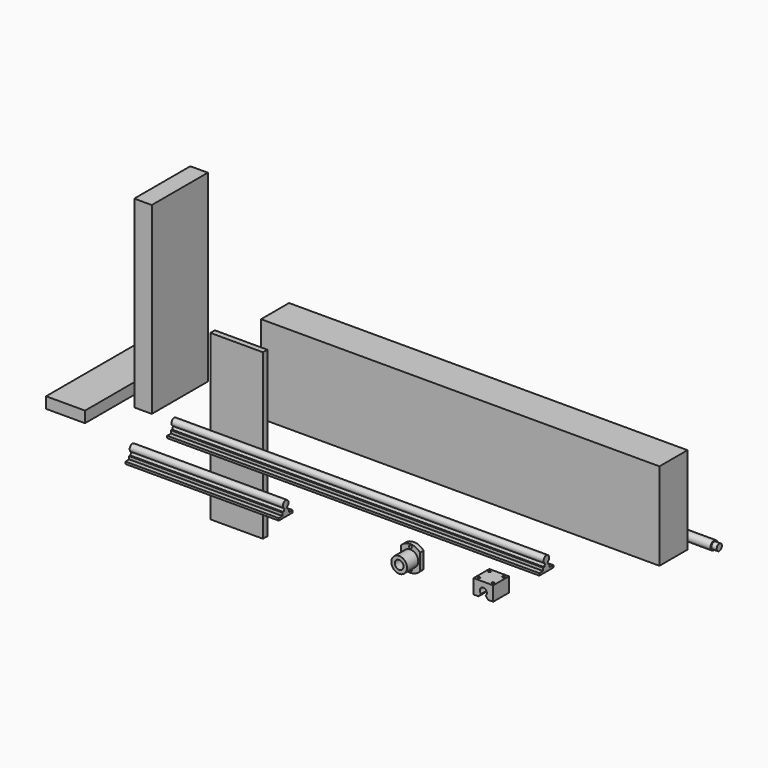
from build123d import *

# Parameters (mm, degrees)
F0_W      = 120
F0_H      = 375
F1_DEPTH  = 12.7
F2_W      = 80
F2_H      = 200
F3_DEPTH  = 910
F4_W      = 40
F4_H      = 160
F5_DEPTH  = 420
F6_W      = 88.9
F6_H      = 250
F7_DEPTH  = 25.4
F9_DEPTH  = 22.5
F11_D     = 5
F11_DEPTH = 12
F11_TIP   = 1.5021515476
F12_R     = 3.3
F12_R_2   = 10
F13_DEPTH = 10
F14_R     = 18
F14_R_2   = 10
F15_DEPTH = 32
F19_DEPTH = 850
F21_DEPTH = 350


with BuildPart() as f1:
    # F0 (on Front) → F1 (new body)
    with BuildSketch(Plane.XZ):
        Rectangle(F0_W, F0_H)
    extrude(amount=F1_DEPTH)


with BuildPart() as f3:
    # F2 (on Right) → F3 (new body)
    with BuildSketch(Plane.YZ):
        with Locations((96.9289559871, 106.2416992025)):
            Rectangle(F2_W, F2_H)
    extrude(amount=F3_DEPTH)


with BuildPart() as f5:
    # F4 (on Top) → F5 (new body)
    with BuildSketch(Plane.XY):
        with Locations((-191.0385191441, 38.7887568785)):
            Rectangle(F4_W, F4_H)
    extrude(amount=F5_DEPTH)


with BuildPart() as f7:
    # F6 (on Top) → F7 (new body)
    with BuildSketch(Plane.XY):
        with Locations((-285.9749857664, -18.732093201)):
            Rectangle(F6_W, F6_H)
    extrude(amount=F7_DEPTH)


with BuildPart() as f9:
    # F8 (on Front) → F9 (new body, symmetric)
    with BuildSketch(Plane.XZ):
        with BuildLine():
            Line((593.8730051517, -136.5850613447), (593.8730051517, -103.5850613447))
            Line((593.8730051517, -103.5850613447), (548.8730051517, -103.5850613447))
            Line((548.8730051517, -103.5850613447), (548.8730051517, -136.5850613447))
            Line((548.8730051517, -136.5850613447), (560.4647099464, -136.5850613447))
            Line((560.4647099464, -136.5850613447), (566.2307042743, -129.7134168896))
            ThreePointArc((566.2307042743, -129.7134168896), (571.3730051517, -115.5850613447), (576.5153060292, -129.7134168896))
            Line((576.5153060292, -129.7134168896), (582.2813003571, -136.5850613447))
            Line((582.2813003571, -136.5850613447), (593.8730051517, -136.5850613447))
        make_face()
    extrude(amount=F9_DEPTH, both=True)

    # F11
    with Locations(Plane.XY.offset(-103.5850613447)):
        with Locations((555.3730051517, 15), (587.3730051517, 15), (587.3730051517, -15), (555.3730051517, -15)):
            Hole(F11_D / 2, depth=F11_DEPTH)
            with Locations((0, 0, -(F11_DEPTH + F11_TIP / 2))):  # 118° drill point
                Cone(0, F11_D / 2, F11_TIP, mode=Mode.SUBTRACT)


with BuildPart() as f13:
    # F12 (on Front) → F13 (new body)
    with BuildSketch(Plane.XZ):
        with BuildLine():
            Line((416.6688771248, -138.14006966), (416.6688771248, -100.3511824047))
            ThreePointArc((416.6688771248, -100.3511824047), (394.6688771248, -90.2456260324), (372.6688771248, -100.3511824047))
            Line((372.6688771248, -100.3511824047), (372.6688771248, -138.14006966))
            ThreePointArc((372.6688771248, -138.14006966), (394.6688771248, -148.2456260324), (416.6688771248, -138.14006966))
        make_face()
        with Locations((394.6688771248, -142.7456260324)):
            Circle(F12_R, mode=Mode.SUBTRACT)
        with Locations((394.6688771248, -119.2456260324)):
            Circle(F12_R_2, mode=Mode.SUBTRACT)
        with Locations((394.6688771248, -95.7456260324)):
            Circle(F12_R, mode=Mode.SUBTRACT)
    extrude(amount=F13_DEPTH)

    # F14 (on face) → F15 (join)
    with BuildSketch(Plane.XZ.offset(10)):
        with Locations((394.6688771248, -119.2456260324)):
            Circle(F14_R)
        with Locations((394.6688771248, -119.2456260324)):
            Circle(F14_R_2, mode=Mode.SUBTRACT)
    extrude(amount=F15_DEPTH)


with BuildPart() as f17:
    # F16 (on Top) → F17 (revolve)
    with BuildSketch(Plane.XY):
        Polygon((-8.7700150907, 194.7517869473), (-8.7700150907, 188.7517869473), (941.2299849093, 188.7517869473), (941.2299849093, 196.2517869473), (929.2299849093, 196.2517869473), (929.2299849093, 198.7517869473), (51.2299849093, 198.7517869473), (51.2299849093, 196.2517869473), (11.2299849093, 196.2517869473), (11.2299849093, 194.7517869473), align=None)
    revolve(axis=Axis((-40.8084288169, 188.7517869473, 0), (-1, 0, 0)))


with BuildPart() as f19:
    # F18 (on Right) → F19 (new body)
    with BuildSketch(Plane.YZ):
        with BuildLine():
            Line((-210.9557174785, 80.7684522526), (-210.9557174785, 75.7684522526))
            Line((-210.9557174785, 75.7684522526), (-170.9557174785, 75.7684522526))
            Line((-170.9557174785, 75.7684522526), (-170.9557174785, 80.7684522526))
            Line((-170.9557174785, 80.7684522526), (-181.7057174785, 80.7684522526))
            Line((-181.7057174785, 80.7684522526), (-181.7057174785, 87.4684522526))
            Line((-181.7057174785, 87.4684522526), (-184.753825625, 87.4684522526))
            Line((-184.753825625, 87.4684522526), (-187.5747713846, 93.5179899563))
            ThreePointArc((-187.5747713846, 93.5179899563), (-190.9557174785, 108.7684522526), (-194.3366635724, 93.5179899563))
            Line((-194.3366635724, 93.5179899563), (-197.1576093319, 87.4684522526))
            Line((-197.1576093319, 87.4684522526), (-200.2057174785, 87.4684522526))
            Line((-200.2057174785, 87.4684522526), (-200.2057174785, 80.7684522526))
            Line((-200.2057174785, 80.7684522526), (-210.9557174785, 80.7684522526))
        make_face()
    extrude(amount=F19_DEPTH)


with BuildPart() as f21:
    # F20 (on Right) → F21 (new body)
    with BuildSketch(Plane.YZ):
        with BuildLine():
            Line((-330.122102499, 77.2753372088), (-330.122102499, 72.2753372088))
            Line((-330.122102499, 72.2753372088), (-290.122102499, 72.2753372088))
            Line((-290.122102499, 72.2753372088), (-290.122102499, 77.2753372088))
            Line((-290.122102499, 77.2753372088), (-300.872102499, 77.2753372088))
            Line((-300.872102499, 77.2753372088), (-300.872102499, 83.9753372088))
            Line((-300.872102499, 83.9753372088), (-303.9202106455, 83.9753372088))
            Line((-303.9202106455, 83.9753372088), (-306.7411564051, 90.0248749125))
            ThreePointArc((-306.7411564051, 90.0248749125), (-310.122102499, 105.2753372088), (-313.5030485929, 90.0248749125))
            Line((-313.5030485929, 90.0248749125), (-316.3239943525, 83.9753372088))
            Line((-316.3239943525, 83.9753372088), (-319.372102499, 83.9753372088))
            Line((-319.372102499, 83.9753372088), (-319.372102499, 77.2753372088))
            Line((-319.372102499, 77.2753372088), (-330.122102499, 77.2753372088))
        make_face()
    extrude(amount=F21_DEPTH)


solid = Compound([f1.part, f3.part, f5.part, f7.part, f9.part, f13.part, f17.part, f19.part, f21.part])
